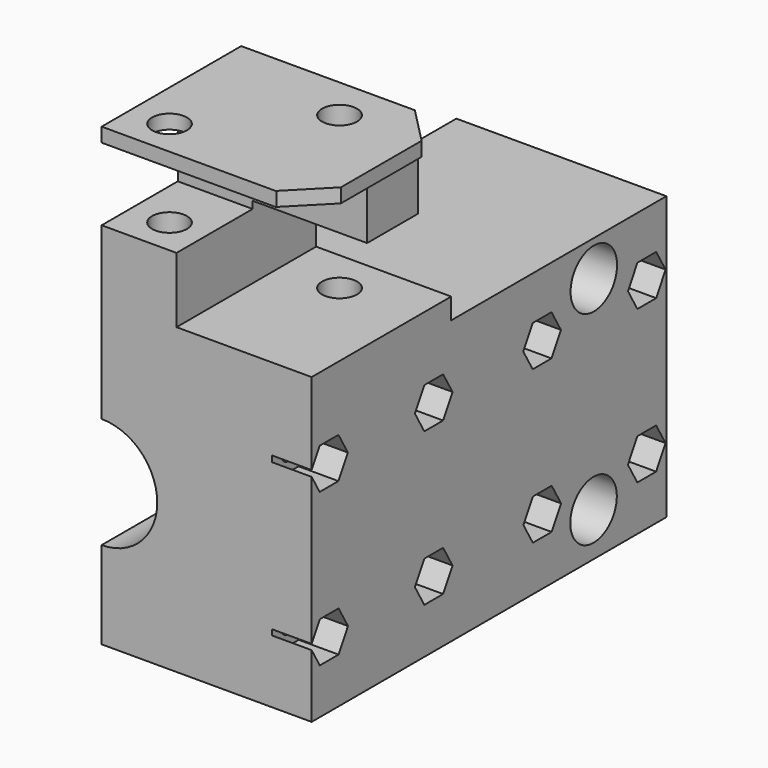
from build123d import *

# Parameters (mm, degrees)
SKETCH_W             = 28.891708
SKETCH_H             = 61.000002
PAD_DEPTH            = 64.706
POCKET_DEPTH         = 5.486
SKETCH002_R          = 4.000759
SKETCH002_R_2        = 4.000904
POCKET013_DEPTH      = 28.147
SKETCH003_R          = 7.633881
POCKET014_DEPTH      = 90
SKETCH004_R          = 1.501587
SKETCH004_R_2        = 1.6888463945
SKETCH004_R_3        = 1.688846
POCKET015_DEPTH      = 71
SKETCH005_W          = 61.94006
SKETCH005_H          = 58.87719
POCKET016_DEPTH      = 34
SKETCH006_W          = 11.564612
SKETCH006_H          = 9.981083
POCKET017_DEPTH      = 18.59
POCKET018_DEPTH      = 14
SKETCH008_W          = 13.093784
SKETCH008_H          = 9.999417
POCKET019_DEPTH      = 38
POCKET019_FACE20_W   = 18.59
POCKET019_FACE20_H   = 9.981083
POCKET020_DEPTH      = 21
SKETCH009_R          = 2.400503
POCKET021_DEPTH      = 27.202
SKETCH010_R          = 2.409031
POCKET022_DEPTH      = 27.378
SKETCH011_W          = 3.434418
SKETCH011_H          = 9.662621
POCKET023_DEPTH      = 54
POCKET023_FACE73_R   = 2.400503
POCKET023_FACE73_R_2 = 2.409031
POCKET024_DEPTH      = 2


with BuildPart() as part:
    # Sketch → Pad (new body)
    with BuildSketch(Plane.XY):
        with Locations((-167.960045, 6.499999)):
            Rectangle(SKETCH_W, SKETCH_H)
    extrude(amount=PAD_DEPTH)

    # Sketch001 (on Face2 of Pad) → Pocket (cut)
    with BuildSketch(Plane.YZ.offset(-153.514191)):
        Polygon((0.227114, 30.1176869999), (-1.3898859999, 32.9184131558), (-4.6238859999, 32.9184131559), (-6.240886, 30.1176870001), (-4.6238860001, 27.3169608442), (-1.3898860001, 27.3169608441), align=None)
        Polygon((18.864944, 30.0627266883), (17.2479442699, 32.863453), (14.0139442699, 32.8634533117), (12.396944, 30.0627273117), (14.0139437301, 27.262001), (17.2479437301, 27.2620006883), align=None)
        Polygon((36.870486, 30.0424916883), (35.2534862699, 32.843218), (32.0194862699, 32.8432183117), (30.402486, 30.0424923117), (32.0194857301, 27.241766), (35.2534857301, 27.2417656883), align=None)
        Polygon((-17.752086, 9.074409), (-19.369086, 11.8751351559), (-22.603086, 11.8751351558), (-24.220086, 9.074409), (-22.603086, 6.2736828441), (-19.369086, 6.2736828442), align=None)
        Polygon((0.225859, 9.1006766883), (-1.3911407301, 11.901403), (-4.6251407301, 11.9014033117), (-6.242141, 9.1006773117), (-4.6251412699, 6.299951), (-1.3911412699, 6.2999506883), align=None)
        Polygon((36.86032, 9.0323376883), (35.2433202699, 11.833064), (32.0093202699, 11.8330643117), (30.39232, 9.0323383117), (32.0093197301, 6.231612), (35.2433197301, 6.2316116883), align=None)
        Polygon((18.890709, 9.0329989998), (17.2737090002, 11.8337251557), (14.0397090002, 11.8337251559), (12.422709, 9.0329990002), (14.0397089998, 6.2322728443), (17.2737089998, 6.2322728441), align=None)
        Polygon((-17.770354, 30.0952738442), (-19.387354, 32.896), (-22.621354, 32.896), (-24.238354, 30.0952738442), (-22.621354, 27.2945476883), (-19.387354, 27.2945476883), align=None)
    extrude(amount=-POCKET_DEPTH, mode=Mode.SUBTRACT)

    # Sketch002 (on Face3 of Pocket) → Pocket013 (cut)
    with BuildSketch(Plane.YZ.offset(-153.514191)):
        with Locations((24.525928, 33.978888)):
            Circle(SKETCH002_R)
        with Locations((24.483081, 5.987167)):
            Circle(SKETCH002_R_2)
    extrude(amount=-POCKET013_DEPTH, mode=Mode.SUBTRACT)

    # Sketch003 (on Face1 of Pocket013) → Pocket014 (cut)
    with BuildSketch(Plane.XZ.offset(24.000002)):
        with Locations((-182.392539, 19.658504)):
            Circle(SKETCH003_R)
    extrude(amount=-POCKET014_DEPTH, mode=Mode.SUBTRACT)

    # Sketch004 (on Face3 of Pocket014) → Pocket015 (cut)
    with BuildSketch(Plane.YZ.offset(-153.514191)):
        with Locations((-2.992992, 30.128542)):
            Circle(SKETCH004_R)
        with Locations((15.650433, 9.031955)):
            Circle(SKETCH004_R_2)
        with Locations((-21.003469, 9.112989)):
            Circle(SKETCH004_R)
        with Locations((-3.007213, 9.130702)):
            Circle(SKETCH004_R)
        with Locations((-21.01451, 30.1173)):
            Circle(SKETCH004_R)
        with Locations((33.645615, 30.049736)):
            Circle(SKETCH004_R_3)
        with Locations((33.606518, 9.031116)):
            Circle(SKETCH004_R_3)
        with Locations((15.625216, 30.036369)):
            Circle(SKETCH004_R_3)
    extrude(amount=-POCKET015_DEPTH, mode=Mode.SUBTRACT)

    # Sketch005 (on Face3 of Pocket015) → Pocket016 (cut)
    with BuildSketch(Plane.YZ.offset(-153.514191)):
        with Locations((30.97003, 68.319813)):
            Rectangle(SKETCH005_W, SKETCH005_H)
    extrude(amount=-POCKET016_DEPTH, mode=Mode.SUBTRACT)

    # Sketch006 (on Face3 of Pocket016) → Pocket017 (cut)
    with BuildSketch(Plane.YZ.offset(-153.514191)):
        with Locations((-5.122813, 46.7572385)):
            Rectangle(SKETCH006_W, SKETCH006_H)
    extrude(amount=-POCKET017_DEPTH, mode=Mode.SUBTRACT)

    # Sketch007 (on Face10 of Pocket017) → Pocket018 (cut)
    with BuildSketch(Plane.XY.offset(64.706)):
        Polygon((-158.429092, -23.970312), (-153.252335, -18.703115), (-151.097504, -28.69935), align=None)
        Polygon((-153.520828, -5.084184), (-159.130096, 0.622078), (-148.158478, 1.033419), align=None)
    extrude(amount=-POCKET018_DEPTH, mode=Mode.SUBTRACT)

    # Sketch008 (on Face13 of Pocket018) → Pocket019 (cut)
    with BuildSketch(Plane(origin=(-182.405899, 0, 0), x_dir=(0, -1, 0), z_dir=(-1, 0, 0))):
        with Locations((17.453488, 55.7602025)):
            Rectangle(SKETCH008_W, SKETCH008_H)
    extrude(amount=-POCKET019_DEPTH, mode=Mode.SUBTRACT)

    # Pocket019 Face20 → Pocket020 (cut)
    with BuildSketch(Plane(origin=(-162.809191, -10.905119, 46.7572385), x_dir=(1, 0, 0), z_dir=(0, 1, 0))):
        Rectangle(POCKET019_FACE20_W, POCKET019_FACE20_H)
    extrude(amount=-POCKET020_DEPTH, mode=Mode.SUBTRACT)

    # Sketch009 (on Face68 of Pocket020) → Pocket021 (cut)
    with BuildSketch(Plane.XY.offset(64.706)):
        with Locations((-177.111391, -18.947801)):
            Circle(SKETCH009_R)
    extrude(amount=-POCKET021_DEPTH, mode=Mode.SUBTRACT)

    # Sketch010 (on Face72 of Pocket021) → Pocket022 (cut)
    with BuildSketch(Plane.XY.offset(64.706)):
        with Locations((-164.116726, -5.948229)):
            Circle(SKETCH010_R)
    extrude(amount=-POCKET022_DEPTH, mode=Mode.SUBTRACT)

    # Sketch011 (on Face1 of Pocket022) → Pocket023 (cut)
    with BuildSketch(Plane.XZ.offset(24.000002)):
        with Locations((-154.641205, 55.9206505)):
            Rectangle(SKETCH011_W, SKETCH011_H)
    extrude(amount=-POCKET023_DEPTH, mode=Mode.SUBTRACT)

    # Pocket023 Face73 → Pocket024 (cut)
    with BuildSketch(Plane(origin=(-168.318188921, -11.9801298357, 64.706), x_dir=(0, 1, 0), z_dir=(0, 0, 1))):
        Polygon((11.9801298357, -9.7995969527), (11.9801298357, 14.087710079), (-12.0198721643, 14.087710079), (-12.0198721643, -9.935126335), (-11.9901821643, -9.889096921), (-6.9894158925, -14.803997921), (6.9035176151, -14.803997921), (6.8959458357, -14.797360921), align=None)
        with Locations((-6.9676711643, 8.793202079)):
            Circle(POCKET023_FACE73_R, mode=Mode.SUBTRACT)
        with Locations((6.0319008357, -4.201462921)):
            Circle(POCKET023_FACE73_R_2, mode=Mode.SUBTRACT)
    extrude(amount=-POCKET024_DEPTH, mode=Mode.SUBTRACT)


solid = part.part
